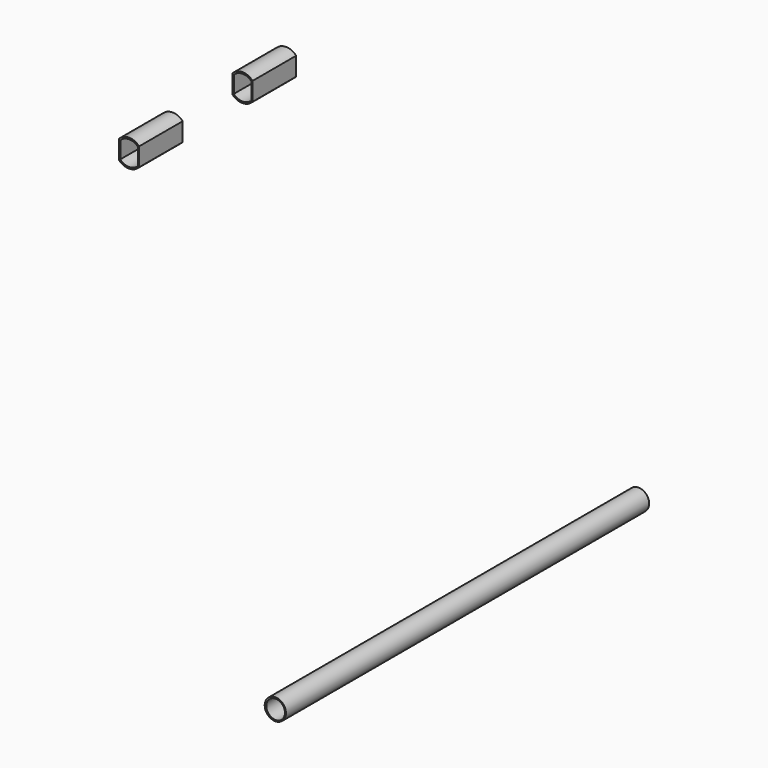
from build123d import *

# Parameters (mm, degrees)
SKETCH165_R                = 2.05629
EXTRUDE184_DEPTH           = 10
SKETCH168_R                = 2.05629
EXTRUDE187_DEPTH           = 10
SKETCH167_R                = 2.34
EXTRUDE186_DEPTH           = 100
EXTRUDE186_PLACEMENT_ANGLE = 90
EXTRUDE191_DEPTH           = 40
EXTRUDE191_PLACEMENT_ANGLE = 90
EXTRUDE188_DEPTH           = 12
EXTRUDE188_PLACEMENT_ANGLE = 90
EXTRUDE197_DEPTH           = 40
EXTRUDE197_PLACEMENT_ANGLE = 90
EXTRUDE196_DEPTH           = 12
EXTRUDE196_PLACEMENT_ANGLE = 90


with BuildPart() as extrude184:
    # Sketch165 → Extrude184 (new body)
    with BuildSketch(Plane(origin=(97.5, 93.9, -16.15), x_dir=(-1, 0, 0), z_dir=(0, 1, 0))):
        with Locations((27.94371, 20)):
            Circle(SKETCH165_R)
    extrude(amount=EXTRUDE184_DEPTH)


with BuildPart() as extrude184_1:
    # Extrude184 placement: moved
    add(extrude184.part.moved(Location((0, -8.3, 0))))


with BuildPart() as extrude187:
    # Sketch168 (on Face2 of Extrude186) → Extrude187 (new body)
    with BuildSketch(Plane(origin=(97.5, 93.9, -16.15), x_dir=(-1, 0, 0), z_dir=(0, 1, 0))):
        with Locations((27.94371, 20)):
            Circle(SKETCH168_R)
    extrude(amount=EXTRUDE187_DEPTH)


with BuildPart() as extrude187_1:
    # Extrude187 placement: moved
    add(extrude187.part.moved(Location((0, -101.8, 0))))


with BuildPart() as tubo:
    # Sketch167 → Extrude186 (new body)
    with BuildSketch(Plane(origin=(-101, -107, 0), x_dir=(0, -1, 0), z_dir=(-1, 0, 0))):
        with Locations((-135.008375, 20)):
            Circle(SKETCH167_R)
    extrude(amount=EXTRUDE186_DEPTH)


with BuildPart() as tubo_1:
    # Extrude186 placement: moved
    add(tubo.part.moved(Location((97.5, 194.9, -16.15))).rotate(Axis((97.5, 194.9, -16.15), (0, 0, 1)), EXTRUDE186_PLACEMENT_ANGLE))

    # Cut108: cut Extrude187
    add(extrude187_1.part, mode=Mode.SUBTRACT)

    # Cut109: cut Extrude184
    add(extrude184_1.part, mode=Mode.SUBTRACT)


with BuildPart() as pieza_clave_motor013:
    # Sketch174 → Extrude191 (new body)
    with BuildSketch(Plane(origin=(0, -17.4, 11), x_dir=(-1, 0, 0), z_dir=(0, 1, 0))):
        with BuildLine():
            Line((-1.85, -8.976057), (1.85, -8.976057))
            ThreePointArc((1.85, -12.876057), (2.687936, -10.926057), (1.85, -8.976057))
            Line((1.85, -12.876057), (-1.85, -12.876057))
            ThreePointArc((-1.85, -8.976057), (-2.687936, -10.926057), (-1.85, -12.876057))
        make_face()
    extrude(amount=EXTRUDE191_DEPTH)


with BuildPart() as pieza_clave_motor013_1:
    # Extrude191 placement: moved
    add(pieza_clave_motor013.part.moved(Location((-59.84, 131.9, 20.22))).rotate(Axis((-59.84, 131.9, 20.22), (0, -1, 0)), EXTRUDE191_PLACEMENT_ANGLE))


with BuildPart() as cut:
    # Sketch169 → Extrude188 (new body)
    with BuildSketch(Plane(origin=(0, -17.4, 11), x_dir=(-1, 0, 0), z_dir=(0, 1, 0))):
        with BuildLine():
            Line((-2.03, -8.748735), (2.03, -8.748735))
            ThreePointArc((2.03, -13.208735), (3.015593, -10.978735), (2.03, -8.748735))
            Line((2.03, -13.208735), (-2.03, -13.208735))
            ThreePointArc((-2.03, -8.748735), (-3.015593, -10.978735), (-2.03, -13.208735))
        make_face()
    extrude(amount=EXTRUDE188_DEPTH)


with BuildPart() as cut_1:
    # Extrude188 placement: moved
    add(cut.part.moved(Location((-59.925037, 164.05, 20.219402))).rotate(Axis((-59.925037, 164.05, 20.219402), (0, -1, 0)), EXTRUDE188_PLACEMENT_ANGLE))

    # Cut: cut Pieza Clave motor013
    add(pieza_clave_motor013_1.part, mode=Mode.SUBTRACT)


with BuildPart() as cut_2:
    # Cut placement: moved
    add(cut_1.part.moved(Location((0, -31.25, 0))))


with BuildPart() as pieza_clave_motor019:
    # Sketch180 → Extrude197 (new body)
    with BuildSketch(Plane(origin=(0, -17.4, 11), x_dir=(-1, 0, 0), z_dir=(0, 1, 0))):
        with BuildLine():
            Line((-1.85, -8.976057), (1.85, -8.976057))
            ThreePointArc((1.85, -12.876057), (2.687936, -10.926057), (1.85, -8.976057))
            Line((1.85, -12.876057), (-1.85, -12.876057))
            ThreePointArc((-1.85, -8.976057), (-2.687936, -10.926057), (-1.85, -12.876057))
        make_face()
    extrude(amount=EXTRUDE197_DEPTH)


with BuildPart() as pieza_clave_motor019_1:
    # Extrude197 placement: moved
    add(pieza_clave_motor019.part.moved(Location((-59.84, 131.9, 20.22))).rotate(Axis((-59.84, 131.9, 20.22), (0, -1, 0)), EXTRUDE197_PLACEMENT_ANGLE))


with BuildPart() as cut111:
    # Sketch179 → Extrude196 (new body)
    with BuildSketch(Plane(origin=(0, -17.4, 11), x_dir=(-1, 0, 0), z_dir=(0, 1, 0))):
        with BuildLine():
            Line((-2.03, -8.748735), (2.03, -8.748735))
            ThreePointArc((2.03, -13.208735), (3.015593, -10.978735), (2.03, -8.748735))
            Line((2.03, -13.208735), (-2.03, -13.208735))
            ThreePointArc((-2.03, -8.748735), (-3.015593, -10.978735), (-2.03, -13.208735))
        make_face()
    extrude(amount=EXTRUDE196_DEPTH)


with BuildPart() as cut111_1:
    # Extrude196 placement: moved
    add(cut111.part.moved(Location((-59.925037, 164.05, 20.219402))).rotate(Axis((-59.925037, 164.05, 20.219402), (0, -1, 0)), EXTRUDE196_PLACEMENT_ANGLE))

    # Cut111: cut Pieza Clave motor019
    add(pieza_clave_motor019_1.part, mode=Mode.SUBTRACT)


solid = Compound([tubo_1.part, cut_2.part, cut111_1.part])
